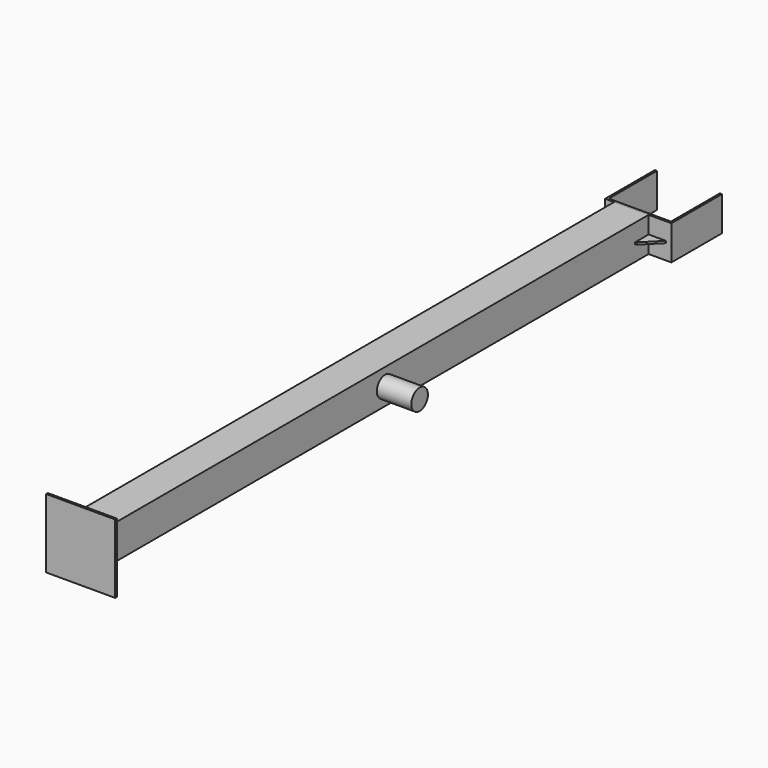
from build123d import *

# Parameters (mm, degrees)
F0_W      = 50
F0_H      = 50
F1_DEPTH  = 994
F3_W      = 100
F3_H      = 100
F4_DEPTH  = 3
F7_DEPTH  = 3
F10_DEPTH = 3
F13_DEPTH = 50
F15_DEPTH = 3
F17_R     = 15
F18_DEPTH = 50


with BuildPart() as f1:
    # F0 (on Front) → F1 (new body)
    with BuildSketch(Plane.XZ):
        Rectangle(F0_W, F0_H)
    extrude(amount=F1_DEPTH)

    # F3 (on offset) → F4 (join)
    with BuildSketch(Plane.XZ.offset(994)):
        Rectangle(F3_W, F3_H)
    extrude(amount=F4_DEPTH)

    # F6 (on offset) → F7 (join)
    with BuildSketch(Plane.XY.offset(-3)):
        Polygon((-25, -994), (-25, -974), (-45, -994), align=None)
        Polygon((45, -994), (25, -974), (25, -994), align=None)
    extrude(amount=F7_DEPTH)

    # F9 (on offset) → F10 (join)
    with BuildSketch(Plane(origin=(3, 0, 0), x_dir=(0, -1, 0), z_dir=(-1, 0, 0))):
        Polygon((974, 25), (994, 25), (994, 45), align=None)
        Polygon((994, -45), (994, -25), (974, -25), align=None)
    extrude(amount=F10_DEPTH)

    # F17 (on offset) → F18 (join)
    with BuildSketch(Plane.YZ.offset(25)):
        with Locations((-477, 0)):
            Circle(F17_R)
    extrude(amount=F18_DEPTH)


with BuildPart() as f13:
    # F12 (on offset) → F13 (new body)
    with BuildSketch(Plane.XY.offset(25)):
        Polygon((-38, 0), (58, 0), (58, 91.4704948664), (55, 91.4704948664), (55, 3), (-35, 3), (-35, 90), (-38, 90), align=None)
    extrude(amount=-F13_DEPTH)


with BuildPart() as f15:
    # F14 (on offset) → F15 (new body)
    with BuildSketch(Plane.XY.offset(-3)):
        Polygon((25, 0), (25, -25), (50, 0), align=None)
    extrude(amount=F15_DEPTH)


solid = Compound([f1.part, f13.part, f15.part])
